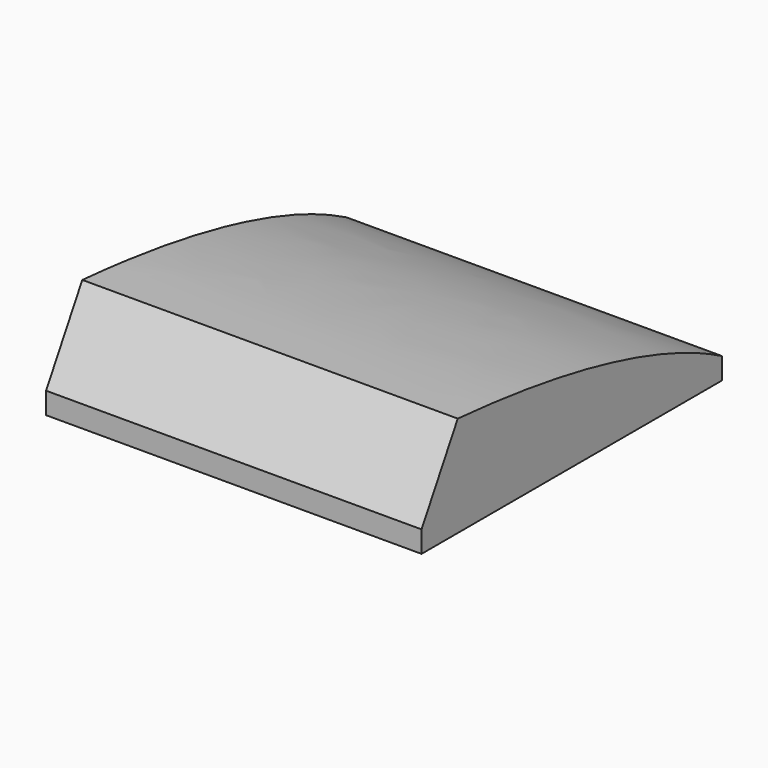
from build123d import *

# Parameters (mm, degrees)
F0_W     = 26.1
F0_H     = 26.1
F1_DEPTH = 7
F3_DEPTH = 26.101


with BuildPart() as f1:
    # F0 (on Top) → F1 (new body)
    with BuildSketch(Plane.XY):
        Rectangle(F0_W, F0_H)
    extrude(amount=F1_DEPTH)

    # F2 (on face) → F3 (cut, through all)
    with BuildSketch(Plane.YZ.offset(13.05)):
        Polygon((-13.05, 7), (-13.05, 1.5), (-9.9039711058, 7), align=None)
        with BuildLine():
            Line((13.05, 7), (-9.9039711058, 7))
            add(Edge.make_bspline(
                [(-9.9039711058, 7), (0, 6.2259258702), (7.9246796668, 4.3140063062), (13.05, 1.5)],
                knots=[0, 0, 0, 0, 23.6037028774, 23.6037028774, 23.6037028774, 23.6037028774], degree=3))
            Line((13.05, 1.5), (13.05, 7))
        make_face()
    extrude(amount=-F3_DEPTH, mode=Mode.SUBTRACT)


solid = f1.part
